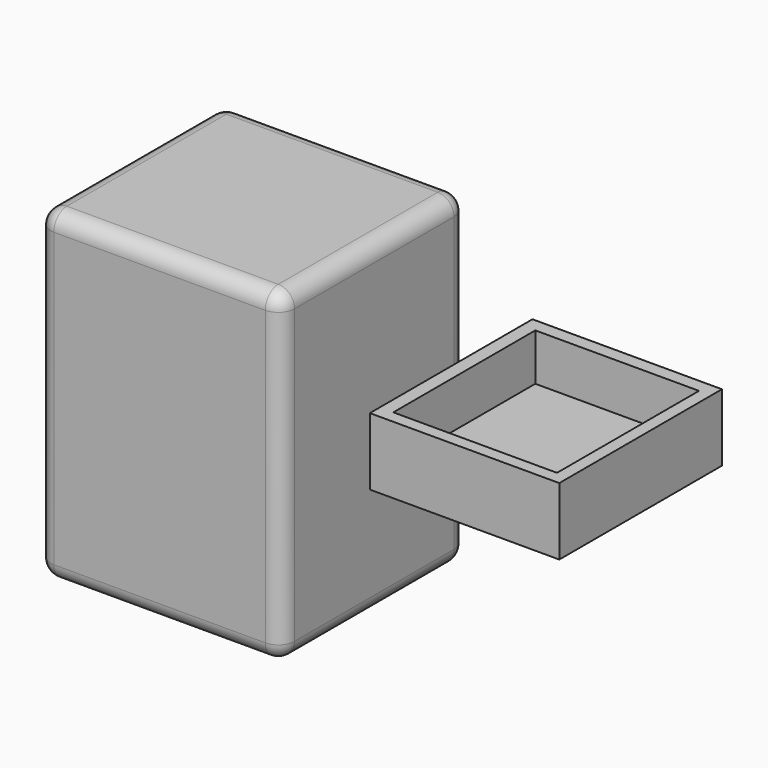
from build123d import *

# Parameters (mm, degrees)
F0_W      = 76.2
F0_H      = 101.6
F0_W_2    = 59.1815430671
F0_H_2    = 21.5466786176
F0_H_3    = 21.5466790833
F0_H_4    = 21.546676755
F1_DEPTH  = 63.5
F2_W      = 76.2
F2_H      = 101.6
F3_DEPTH  = 8.89
F4_W      = 59.182
F4_H      = 21.0312
F5_DEPTH  = 63.5
F6_T      = -6.35
F7_W      = 51.1374548078
F7_H      = 55.4467877373
F8_DEPTH  = 14.6812
F9_R      = 4.4462693539
F10_DEPTH = 6.35
F11_R     = 2.54
F12_R     = 5.08


with BuildPart() as f1:
    # F0 (on Front) → F1 (new body)
    with BuildSketch(Plane.XZ):
        with Locations((-0.1436434686, 4.2566598623)):
            Rectangle(F0_W, F0_H)
        with Locations((-9.313e-07, -24.7068582103)):
            Rectangle(F0_W_2, F0_H_2, mode=Mode.SUBTRACT)
        with Locations((-9.313e-07, 5.1712028217)):
            Rectangle(F0_W_2, F0_H_3, mode=Mode.SUBTRACT)
        with Locations((-9.313e-07, 35.0492633879)):
            Rectangle(F0_W_2, F0_H_4, mode=Mode.SUBTRACT)
    extrude(amount=F1_DEPTH)

    # F2 (on face) → F3 (join)
    with BuildSketch(Plane.XZ.offset(63.5)):
        with Locations((-0.1436434686, 4.2566598623)):
            Rectangle(F2_W, F2_H)
    extrude(amount=F3_DEPTH)

    # F12
    f12_edges = [f1.edges().sort_by_distance(p)[0] for p in [
        (-0.143643, 0, 55.05666),
        (-38.243643, 0, 4.25666),
        (-0.143643, 0, -46.54334),
        (37.956357, 0, 4.25666),
        (-38.243643, -36.195, 55.05666),
        (-38.243643, -72.39, 4.25666),
        (-38.243643, -36.195, -46.54334),
        (37.956357, -36.195, 55.05666),
        (37.956357, -72.39, 4.25666),
        (37.956357, -36.195, -46.54334),
        (-0.143643, -72.39, 55.05666),
        (-0.143643, -72.39, -46.54334),
    ]]
    fillet(f12_edges, radius=F12_R)


with BuildPart() as f5:
    # F4 (on Front) → F5 (new body)
    with BuildSketch(Plane.XZ):
        with Locations((88.024456054, 15.882300658)):
            Rectangle(F4_W, F4_H)
    extrude(amount=F5_DEPTH)

    # F6 (hollow: no face is removed)
    offset(amount=F6_T, mode=Mode.SUBTRACT)

    # F7 (on face) → F8 (cut)
    with BuildSketch(Plane.XY.offset(26.397900658)):
        with Locations((88.2206596434, -31.8890851922)):
            Rectangle(F7_W, F7_H)
    extrude(amount=-F8_DEPTH, mode=Mode.SUBTRACT)

    # F9 (on face) → F10 (join)
    with BuildSketch(Plane(origin=(0, 0, 0), x_dir=(-1, 0, 0), z_dir=(0, 1, 0))):
        with Locations((-88.024456054, 15.882300658)):
            Circle(F9_R)
    extrude(amount=F10_DEPTH)

    # F11
    f11_edges = [f5.edges().sort_by_distance(p)[0] for p in [
        (92.470725, 6.35, 15.882301),
    ]]
    fillet(f11_edges, radius=F11_R)


solid = Compound([f1.part, f5.part])
